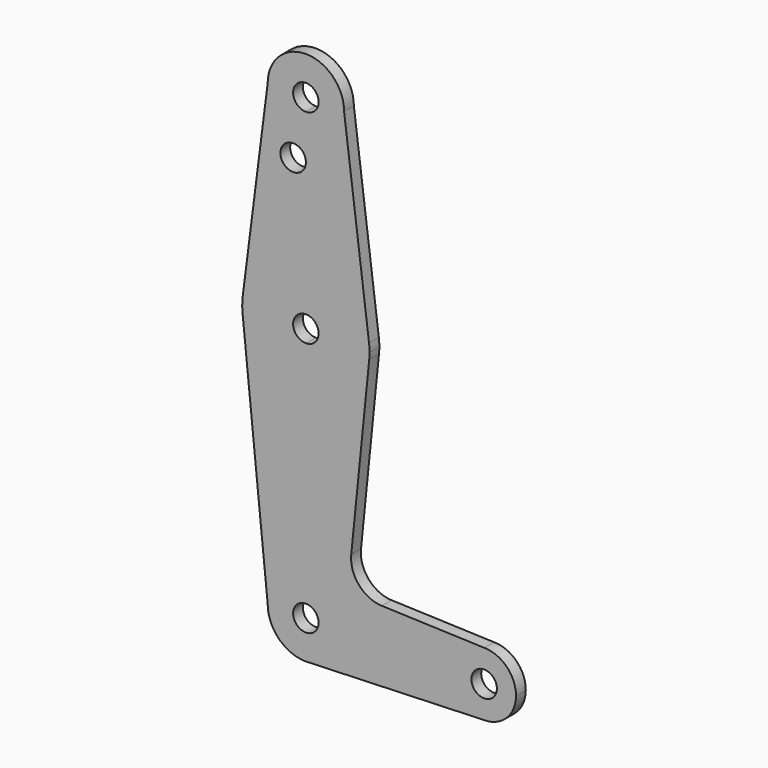
from build123d import *

# Parameters (mm, degrees)
F0_R     = 3.175
F1_DEPTH = 3.048


with BuildPart() as f1:
    # F0 (on Front) → F1 (new body)
    with BuildSketch(Plane.XZ):
        with BuildLine():
            ThreePointArc((0, 104.775), (6.7351920908, 107.5648079092), (9.525, 114.3))
            ThreePointArc((9.525, 114.3), (0, 123.825), (-9.525, 114.3))
            ThreePointArc((-9.525, 114.3), (-6.7351920908, 107.5648079092), (0, 104.775))
        make_face()
        with BuildLine():
            ThreePointArc((3.175, 114.3), (2.2450640303, 112.0549359697), (0, 111.125))
            ThreePointArc((0, 111.125), (-2.2450640303, 116.5450640303), (3.175, 114.3))
        make_face(mode=Mode.SUBTRACT)
        with BuildLine():
            Line((15.7474569047, 65.5082893304), (9.525, 114.3))
            ThreePointArc((9.525, 114.3), (6.7351920908, 107.5648079092), (0, 104.775))
            Line((0, 104.775), (0, 100.0252))
            Line((0, 100.0252), (0, 79.375))
            ThreePointArc((0, 79.375), (10.4912828548, 75.4142187767), (15.7474569047, 65.5082893304))
        make_face()
        with BuildLine():
            ThreePointArc((0, 104.775), (-6.7351920908, 107.5648079092), (-9.525, 114.3))
            Line((-9.525, 114.3), (-15.7474569047, 65.5082893304))
            ThreePointArc((-15.7474569047, 65.5082893304), (-10.4912828548, 75.4142187767), (0, 79.375))
            Line((0, 79.375), (0, 100.0252))
            Line((0, 100.0252), (0, 104.775))
        make_face()
        with Locations((-3.175, 100.0252)):
            Circle(F0_R, mode=Mode.SUBTRACT)
        with BuildLine():
            ThreePointArc((15.875, 63.5), (15.8430821396, 64.5061676396), (15.7474569047, 65.5082893304))
            ThreePointArc((15.7474569047, 65.5082893304), (10.4912828548, 75.4142187767), (0, 79.375))
            Line((0, 79.375), (0, 66.675))
            ThreePointArc((0, 66.675), (2.2450640303, 65.7450640303), (3.175, 63.5))
            ThreePointArc((3.175, 63.5), (2.2450640303, 61.2549359697), (0, 60.325))
            Line((0, 60.325), (0, 47.625))
            ThreePointArc((0, 47.625), (10.644756084, 51.722700101), (15.7942028036, 61.9003804205))
            ThreePointArc((15.7942028036, 61.9003804205), (15.8547878338, 62.6991705884), (15.875, 63.5))
        make_face()
        with BuildLine():
            ThreePointArc((0, 79.375), (-10.4912828548, 75.4142187767), (-15.7474569047, 65.5082893304))
            ThreePointArc((-15.7474569047, 65.5082893304), (-15.873667691, 63.7056672947), (-15.7942028036, 61.9003804205))
            ThreePointArc((-15.7942028036, 61.9003804205), (-10.644756084, 51.722700101), (0, 47.625))
            Line((0, 47.625), (0, 60.325))
            ThreePointArc((0, 60.325), (-3.175, 63.5), (0, 66.675))
            Line((0, 66.675), (0, 79.375))
        make_face()
        with BuildLine():
            ThreePointArc((0, 47.625), (-10.644756084, 51.722700101), (-15.7942028036, 61.9003804205))
            Line((-15.7942028036, 61.9003804205), (-9.525, 0))
            ThreePointArc((-9.525, 0), (-6.7351920908, 6.7351920908), (0, 9.525))
            Line((0, 9.525), (0, 47.625))
        make_face()
        with BuildLine():
            Line((11.3070069952, 17.5950458731), (15.7942028036, 61.9003804205))
            ThreePointArc((15.7942028036, 61.9003804205), (10.644756084, 51.722700101), (0, 47.625))
            Line((0, 47.625), (0, 9.525))
            ThreePointArc((0, 9.525), (6.7351920908, 6.7351920908), (9.525, 0))
            Line((9.525, 0), (36.5125, 0))
            ThreePointArc((36.5125, 0), (38.8373399243, 5.6126600757), (44.45, 7.9375))
            Line((44.45, 7.9375), (18.9329889534, 8.8488218231))
            ThreePointArc((18.9329889534, 8.8488218231), (13.22446249, 11.5691841219), (11.3070069952, 17.5950458731))
        make_face()
        with BuildLine():
            ThreePointArc((0, 9.525), (-6.7351920908, 6.7351920908), (-9.525, 0))
            ThreePointArc((-9.525, 0), (-6.7351920908, -6.7351920908), (0, -9.525))
            Line((0, -9.525), (0.6794904459, -9.5007324841))
            ThreePointArc((0.6794904459, -9.5007324841), (6.9712901065, -6.4905114784), (9.525, 0))
            Line((9.525, 0), (3.175, 0))
            ThreePointArc((3.175, 0), (-2.2450640303, -2.2450640303), (0, 3.175))
            Line((0, 3.175), (0, 9.525))
        make_face()
        with BuildLine():
            Line((0.6794904459, -9.5007324841), (0, -9.525))
            ThreePointArc((0, -9.525), (0.3399618281, -9.5189311877), (0.6794904459, -9.5007324841))
        make_face()
        with BuildLine():
            Line((36.5125, 0), (9.525, 0))
            ThreePointArc((9.525, 0), (6.9712901065, -6.4905114784), (0.6794904459, -9.5007324841))
            Line((0.6794904459, -9.5007324841), (44.45, -7.9375))
            ThreePointArc((44.45, -7.9375), (38.8373399243, -5.6126600757), (36.5125, 0))
        make_face()
        with BuildLine():
            ThreePointArc((52.3875, 0), (50.0626600757, 5.6126600757), (44.45, 7.9375))
            ThreePointArc((44.45, 7.9375), (38.8373399243, 5.6126600757), (36.5125, 0))
            ThreePointArc((36.5125, 0), (38.8373399243, -5.6126600757), (44.45, -7.9375))
            ThreePointArc((44.45, -7.9375), (50.0626600757, -5.6126600757), (52.3875, 0))
        make_face()
        with BuildLine():
            ThreePointArc((47.625, 0), (44.45, -3.175), (41.275, 0))
            ThreePointArc((41.275, 0), (44.45, 3.175), (47.625, 0))
        make_face(mode=Mode.SUBTRACT)
        with BuildLine():
            ThreePointArc((9.525, 0), (6.7351920908, 6.7351920908), (0, 9.525))
            Line((0, 9.525), (0, 3.175))
            ThreePointArc((0, 3.175), (2.2450640303, 2.2450640303), (3.175, 0))
            Line((3.175, 0), (9.525, 0))
        make_face()
    extrude(amount=F1_DEPTH)


solid = f1.part
